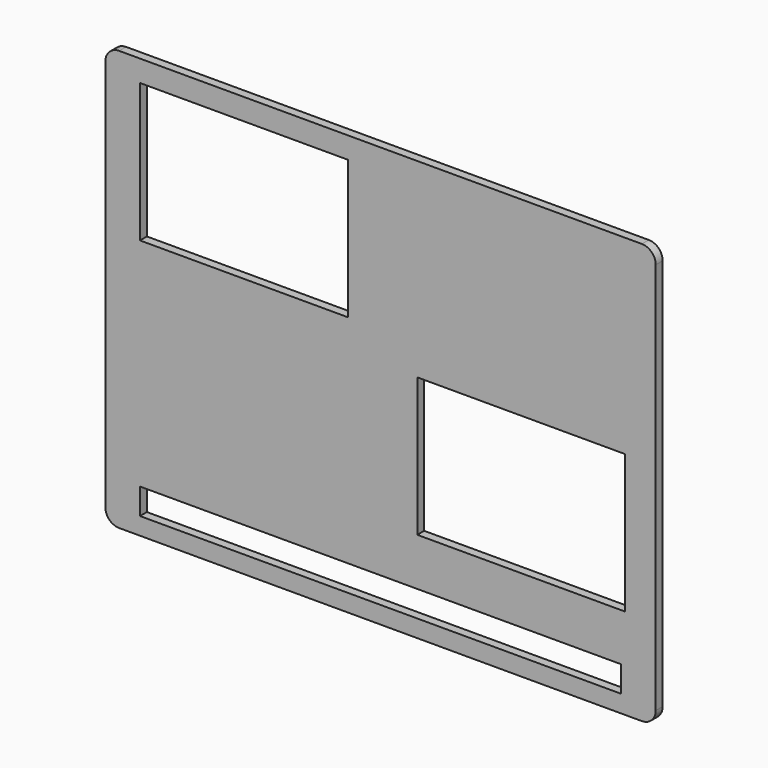
from build123d import *

# Parameters (mm, degrees)
F0_W     = 201.676
F0_H     = 153.924
F1_DEPTH = 3.175
F2_W     = 76.2
F2_H     = 50.8
F3_DEPTH = 3.176
F4_W     = 176.276
F4_H     = 9.525
F5_DEPTH = 3.176
F6_R     = 5.08


with BuildPart() as f1:
    # F0 (on Front) → F1 (new body)
    with BuildSketch(Plane.XZ):
        Rectangle(F0_W, F0_H)
    extrude(amount=F1_DEPTH)

    # F2 (on face) → F3 (cut, through all)
    with BuildSketch(Plane.XZ.offset(3.175)):
        with Locations((-50.038, 43.688)):
            Rectangle(F2_W, F2_H)
        with Locations((51.562, -18.2245)):
            Rectangle(F2_W, F2_H)
    extrude(amount=-F3_DEPTH, mode=Mode.SUBTRACT)

    # F4 (on face) → F5 (cut, through all)
    with BuildSketch(Plane.XZ.offset(3.175)):
        with Locations((0, -65.8495)):
            Rectangle(F4_W, F4_H)
    extrude(amount=-F5_DEPTH, mode=Mode.SUBTRACT)

    # F6
    f6_edges = [f1.edges().sort_by_distance(p)[0] for p in [
        (100.838, -1.5875, 76.962),
        (100.838, -1.5875, -76.962),
        (-100.838, -1.5875, 76.962),
        (-100.838, -1.5875, -76.962),
    ]]
    fillet(f6_edges, radius=F6_R)


solid = f1.part
